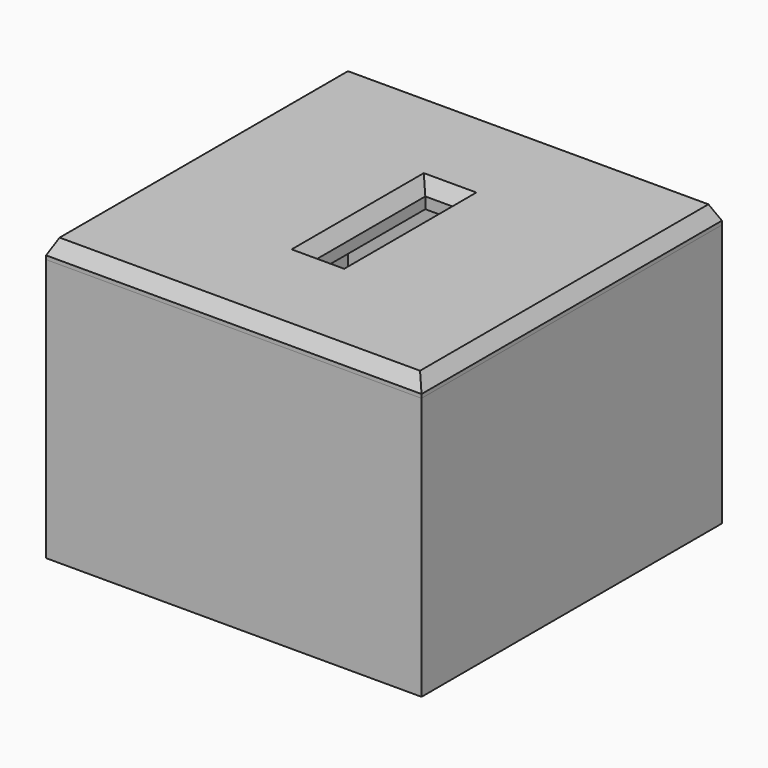
from build123d import *

# Parameters (mm, degrees)
F0_W      = 100
F0_H      = 100
F1_DEPTH  = 70
F2_W      = 96
F2_H      = 96
F3_DEPTH  = 68
F4_W      = 100
F4_H      = 100
F5_DEPTH  = 5
F6_W      = 94
F6_H      = 94
F7_DEPTH  = 2
F8_W      = 10
F8_H      = 40
F9_DEPTH  = 25
F10_R     = 5
F11_SIZE2 = 4
F11_SIZE  = 2
F12_T     = -2


with BuildPart() as f1:
    # F0 (on Top) → F1 (new body)
    with BuildSketch(Plane.XY):
        Rectangle(F0_W, F0_H)
    extrude(amount=F1_DEPTH)

    # F2 (on face) → F3 (cut)
    with BuildSketch(Plane.XY.offset(70)):
        Rectangle(F2_W, F2_H)
    extrude(amount=-F3_DEPTH, mode=Mode.SUBTRACT)


with BuildPart() as f5:
    # F4 (on face) → F5 (new body)
    with BuildSketch(Plane.XY.offset(70)):
        Rectangle(F4_W, F4_H)
    extrude(amount=F5_DEPTH)

    # F6 (on face) → F7 (join)
    with BuildSketch(Plane(origin=(0, 0, 70), x_dir=(1, 0, 0), z_dir=(0, 0, -1))):
        Rectangle(F6_W, F6_H)
    extrude(amount=F7_DEPTH)

    # F8 (on face) → F9 (cut)
    with BuildSketch(Plane.XY.offset(75)):
        Rectangle(F8_W, F8_H)
    extrude(amount=-F9_DEPTH, mode=Mode.SUBTRACT)

    # F10
    f10_edges = [f5.edges().sort_by_distance(p)[0] for p in [
        (-47, -47, 69),
        (47, -47, 69),
        (-47, 47, 69),
        (47, 47, 69),
    ]]
    fillet(f10_edges, radius=F10_R)

    # F11
    f11_edges = [f5.edges().sort_by_distance(p)[0] for p in [
        (-50, 0, 75),
        (0, 50, 75),
        (0, -50, 75),
        (50, 0, 75),
        (0, -20, 75),
        (5, 0, 75),
        (0, 20, 75),
        (-5, 0, 75),
    ]]
    f11_side = f5.faces().sort_by_distance((-48.585786, 0, 75))[0]
    chamfer(f11_edges, length=F11_SIZE, length2=F11_SIZE2, reference=f11_side)

    # F12
    f12_openings = [f5.faces().sort_by_distance(p)[0] for p in [
        (0, -45.670639, 68),
    ]]
    offset(amount=F12_T, openings=f12_openings, kind=Kind.INTERSECTION)


solid = Compound([f1.part, f5.part])
